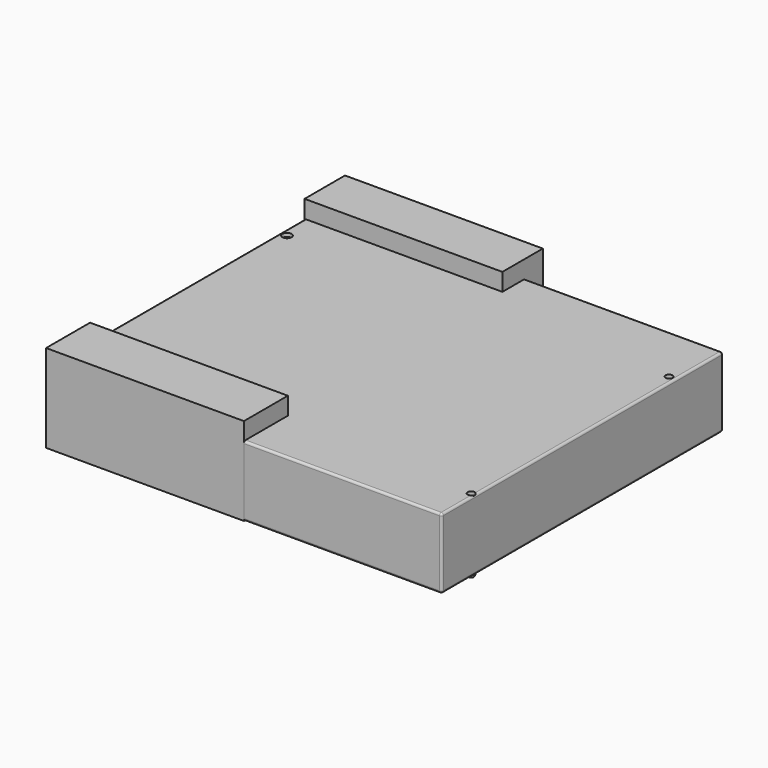
from build123d import *

# Parameters (mm, degrees)
SKETCH_W        = 180
SKETCH_H        = 160
SKETCH_W_2      = 83.683545
SKETCH_H_2      = 49.663596
SKETCH_W_3      = 54.620335
SKETCH_H_3      = 23
SKETCH_W_4      = 58.444272
PAD001_DEPTH    = 30
SKETCH004_W     = 180
SKETCH004_H     = 160
PAD002_DEPTH    = 2
FILLET_R        = 1
SKETCH005_R     = 2
SKETCH005_R_2   = 1.5
PAD003_DEPTH    = 1.4
FILLET001_R     = 1
SKETCH006_R     = 2.1
SKETCH006_R_2   = 1.6
POCKET001_DEPTH = 1.6
SKETCH002_W     = 90
SKETCH002_H     = 170
PAD_DEPTH       = 40
SKETCH003_W     = 90
SKETCH003_H     = 122
POCKET_DEPTH    = 20


with BuildPart() as body:
    # Sketch (on XY_Plane of Origin) → Pad001 (new body)
    with BuildSketch(Plane.XY):
        with Locations((90, 80)):
            Rectangle(SKETCH_W, SKETCH_H)
        with Locations((47.3975, 28.156104)):
            Rectangle(SKETCH_W_2, SKETCH_H_2, mode=Mode.SUBTRACT)
        Polygon((176, 3.288444), (176, 52.95204), (92.411482, 52.95204), (92.411499, 3.288444), align=None, mode=Mode.SUBTRACT)
        with Locations((32.865896, 146.5)):
            Rectangle(SKETCH_W_3, SKETCH_H_3, mode=Mode.SUBTRACT)
        with Locations((88.865895, 146.5)):
            Rectangle(SKETCH_W_3, SKETCH_H_3, mode=Mode.SUBTRACT)
        with Locations((146.777864, 146.5)):
            Rectangle(SKETCH_W_4, SKETCH_H_3, mode=Mode.SUBTRACT)
        with Locations((32.865896, 120.5)):
            Rectangle(SKETCH_W_3, SKETCH_H_3, mode=Mode.SUBTRACT)
        with Locations((88.865895, 120.5)):
            Rectangle(SKETCH_W_3, SKETCH_H_3, mode=Mode.SUBTRACT)
        with Locations((146.777864, 120.5)):
            Rectangle(SKETCH_W_4, SKETCH_H_3, mode=Mode.SUBTRACT)
        with Locations((32.865896, 94.5)):
            Rectangle(SKETCH_W_3, SKETCH_H_3, mode=Mode.SUBTRACT)
        with Locations((88.865895, 94.5)):
            Rectangle(SKETCH_W_3, SKETCH_H_3, mode=Mode.SUBTRACT)
        with Locations((146.777864, 94.5)):
            Rectangle(SKETCH_W_4, SKETCH_H_3, mode=Mode.SUBTRACT)
        with Locations((32.865896, 68.5)):
            Rectangle(SKETCH_W_3, SKETCH_H_3, mode=Mode.SUBTRACT)
        with Locations((88.865895, 68.5)):
            Rectangle(SKETCH_W_3, SKETCH_H_3, mode=Mode.SUBTRACT)
        with Locations((146.777864, 68.5)):
            Rectangle(SKETCH_W_4, SKETCH_H_3, mode=Mode.SUBTRACT)
    extrude(amount=PAD001_DEPTH)

    # Sketch004 (on Face62 of Pad001) → Pad002 (join)
    with BuildSketch(Plane.XY.offset(30)):
        with Locations((90, 80)):
            Rectangle(SKETCH004_W, SKETCH004_H)
    extrude(amount=PAD002_DEPTH)

    # Fillet
    fillet_edges = [body.edges().sort_by_distance(p)[0] for p in [
        (0, 80, 0),
        (0, 0, 16),
        (0, 80, 32),
        (0, 160, 16),
        (90, 0, 0),
        (180, 0, 16),
        (90, 0, 32),
        (180, 160, 16),
        (90, 160, 0),
        (90, 160, 32),
        (180, 80, 0),
        (180, 80, 32),
    ]]
    fillet(fillet_edges, radius=FILLET_R)

    # Sketch005 (on Face1 of Fillet) → Pad003 (join)
    with BuildSketch(Plane(origin=(0, 0, 0), x_dir=(1, 0, 0), z_dir=(0, 0, -1))):
        with Locations((3.192135, -19.020531)):
            Circle(SKETCH005_R)
        with Locations((178.165253, -19.020437)):
            Circle(SKETCH005_R_2)
        with Locations((3.192172, -133.020531)):
            Circle(SKETCH005_R)
        with Locations((176.964737, -133.077667)):
            Circle(SKETCH005_R_2)
    extrude(amount=PAD003_DEPTH)

    # Fillet001
    fillet001_edges = [body.edges().sort_by_distance(p)[0] for p in [
        (1.192135, 19.020531, -1.4),
        (176.665253, 19.020437, -1.4),
        (175.464737, 133.077667, -1.4),
        (1.192172, 133.020531, -1.4),
    ]]
    fillet(fillet001_edges, radius=FILLET001_R)

    # Sketch006 (on Face107 of Fillet001) → Pocket001 (cut)
    with BuildSketch(Plane.XY.offset(32)):
        with Locations((3.192172, 133.020531)):
            Circle(SKETCH006_R)
        with Locations((3.192135, 19.020531)):
            Circle(SKETCH006_R)
        with Locations((178.165253, 19.020437)):
            Circle(SKETCH006_R_2)
        with Locations((176.964737, 133.077667)):
            Circle(SKETCH006_R_2)
    extrude(amount=-POCKET001_DEPTH, mode=Mode.SUBTRACT)


with BuildPart() as sign_tree:
    # Sketch002 (on XY_Plane001 of Origin002) → Pad (new body)
    with BuildSketch(Plane.XY):
        with Locations((45, 85)):
            Rectangle(SKETCH002_W, SKETCH002_H)
    extrude(amount=PAD_DEPTH)

    # Sketch003 (on Face6 of Pad) → Pocket (cut)
    with BuildSketch(Plane.XY.offset(40)):
        with Locations((45, 86)):
            Rectangle(SKETCH003_W, SKETCH003_H)
    extrude(amount=-POCKET_DEPTH, mode=Mode.SUBTRACT)


solid = Compound([body.part, sign_tree.part])
